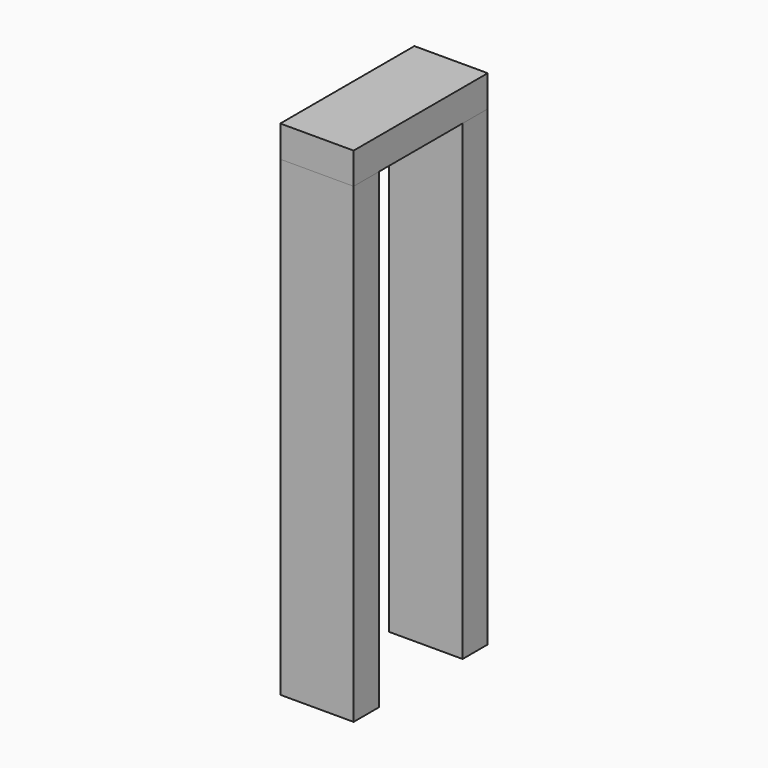
from build123d import *

# Parameters (mm, degrees)
F0_W     = 88.9
F0_H     = 38.1
F1_DEPTH = 101.6
F2_W     = 88.9
F2_H     = 38.1
F3_DEPTH = 571.5


with BuildPart() as f1:
    # F0 (on Front) → F1 (new body, symmetric)
    with BuildSketch(Plane.XZ):
        with Locations((0, 590.55)):
            Rectangle(F0_W, F0_H)
    extrude(amount=F1_DEPTH, both=True)


with BuildPart() as f3:
    # F2 (on face) → F3 (new body, through all)
    with BuildSketch(Plane(origin=(0, 0, 571.5), x_dir=(1, 0, 0), z_dir=(0, 0, -1))):
        with Locations((0, -82.55)):
            Rectangle(F2_W, F2_H)
        with Locations((0, 82.55)):
            Rectangle(F2_W, F2_H)
    extrude(amount=F3_DEPTH)


solid = Compound([f1.part, f3.part])
